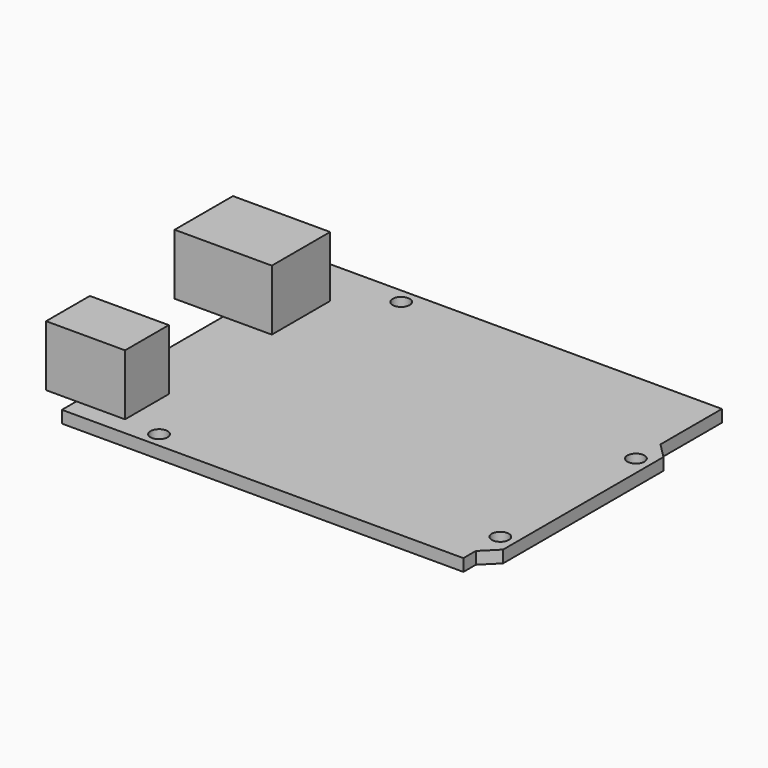
from build123d import *

# Parameters (mm, degrees)
F0_R     = 1.4
F1_DEPTH = 2
F2_W     = 8
F2_H     = 12
F2_W_2   = 5
F2_H_2   = 9
F3_DEPTH = 10


with BuildPart() as f1:
    # F0 (on Top) → F1 (new body)
    with BuildSketch(Plane.XY):
        Polygon((86.1, 63.2), (20, 63.2), (20, 10), (86.1, 10), (86.1, 12.55), (88.6, 15.05), (88.6, 48.05), (86.1, 50.55), align=None)
        with Locations((34, 12.5)):
            Circle(F0_R, mode=Mode.SUBTRACT)
        with Locations((86.1, 17.6)):
            Circle(F0_R, mode=Mode.SUBTRACT)
        with Locations((35.3, 60.7)):
            Circle(F0_R, mode=Mode.SUBTRACT)
        with Locations((86.1, 45.5)):
            Circle(F0_R, mode=Mode.SUBTRACT)
    extrude(amount=F1_DEPTH)

    # F2 (on face) → F3 (join)
    with BuildSketch(Plane.XY.offset(2)):
        with Locations((16, 49.2)):
            Rectangle(F2_W, F2_H)
        with Locations((24, 49.2)):
            Rectangle(F2_W, F2_H)
        with Locations((17.5, 17.5)):
            Rectangle(F2_W_2, F2_H_2)
        with Locations((24, 17.5)):
            Rectangle(F2_W, F2_H_2)
    extrude(amount=F3_DEPTH)


solid = f1.part
